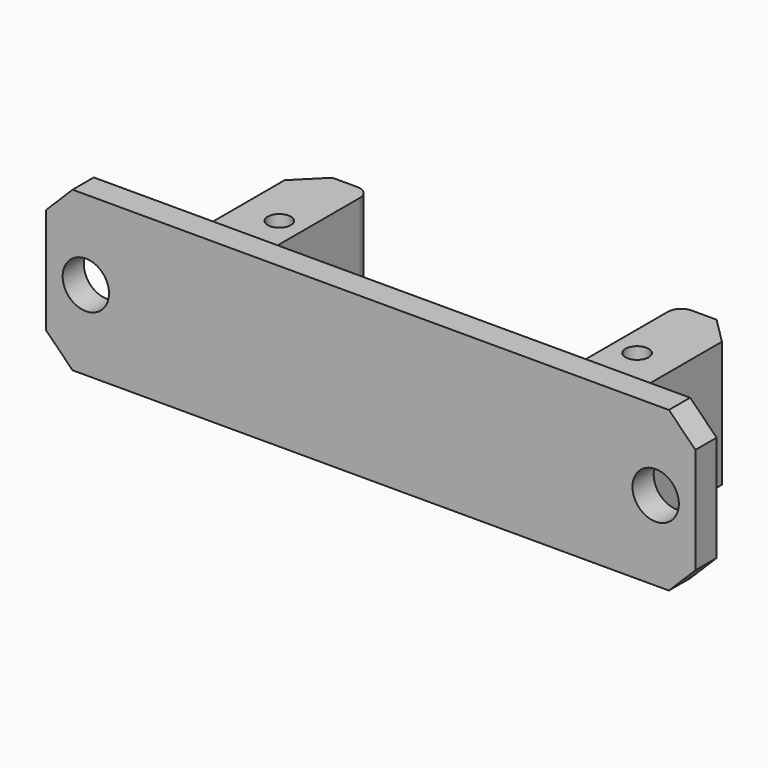
from build123d import *

# Parameters (mm, degrees)
F0_W     = 8
F0_H     = 2
F1_DEPTH = 12
F0_W_2   = 4.875
F0_H_2   = 12.5
F0_R     = 0.875
F2_DEPTH = 9.5
F3_SIZE  = 2
F4_R     = 1.75
F5_DEPTH = 2
F6_R     = 1


with BuildPart() as f1:
    # F0 (on Top) → F1 (new body)
    with BuildSketch(Plane.XY):
        Polygon((-11.625, -5.25), (-16.5, -5.25), (-16.5, -7.25), (16.5, -7.25), (16.5, -5.25), (11.625, -5.25), align=None)
        with Locations((-20.5, -6.25)):
            Rectangle(F0_W, F0_H)
        with Locations((20.5, -6.25)):
            Rectangle(F0_W, F0_H)
    extrude(amount=F1_DEPTH)

    # F0 (on Top) → F2 (join)
    with BuildSketch(Plane.XY):
        with Locations((-14.0625, 1)):
            Rectangle(F0_W_2, F0_H_2)
        with Locations((-13.5, 1)):
            Circle(F0_R, mode=Mode.SUBTRACT)
        with Locations((14.0625, 1)):
            Rectangle(F0_W_2, F0_H_2)
        with Locations((13.5, 1)):
            Circle(F0_R, mode=Mode.SUBTRACT)
    extrude(amount=F2_DEPTH)

    # F3
    f3_edges = [f1.edges().sort_by_distance(p)[0] for p in [
        (-16.5, 7.25, 4.75),
        (16.5, 7.25, 4.75),
        (-24.5, -6.25, 12),
        (-24.5, -6.25, 0),
        (24.5, -6.25, 12),
        (24.5, -6.25, 0),
        (-16.5, -5.25, 4.75),
        (16.5, -5.25, 4.75),
    ]]
    chamfer(f3_edges, length=F3_SIZE)

    # F4 (on face) → F5 (cut, through all)
    with BuildSketch(Plane(origin=(0, -5.25, 0), x_dir=(-1, 0, 0), z_dir=(0, 1, 0))):
        with Locations((21.5, 6)):
            Circle(F4_R)
        with Locations((-21.5, 6)):
            Circle(F4_R)
    extrude(amount=-F5_DEPTH, mode=Mode.SUBTRACT)

    # F6
    f6_edges = [f1.edges().sort_by_distance(p)[0] for p in [
        (11.625, -5.25, 4.75),
        (-11.625, -5.25, 4.75),
        (-11.625, 7.25, 4.75),
        (11.625, 7.25, 4.75),
    ]]
    fillet(f6_edges, radius=F6_R)


solid = f1.part
